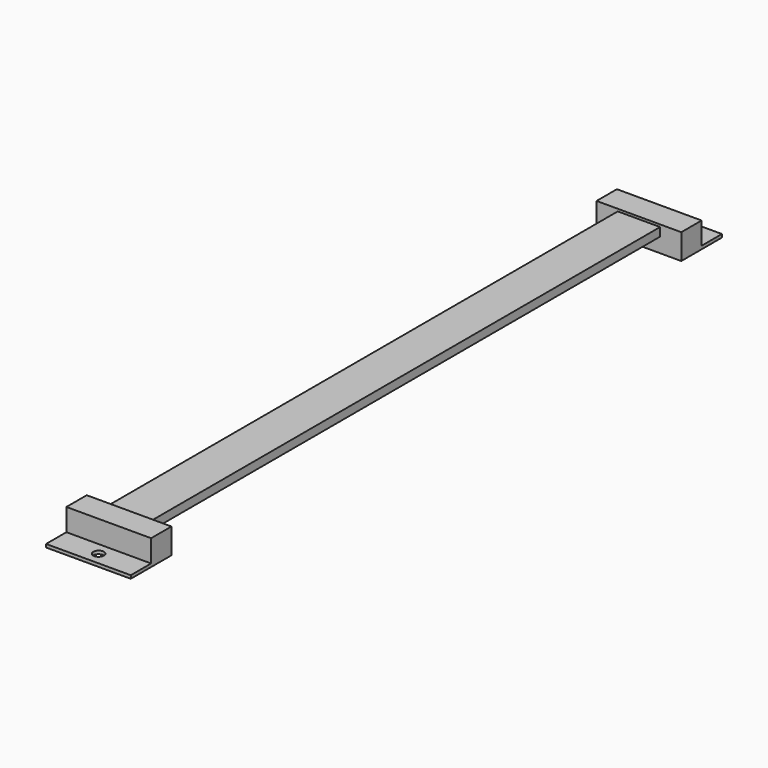
from build123d import *

# Parameters (mm, degrees)
SKETCH_W          = 20
SKETCH_H          = 4
PAD_DEPTH         = 162.5
PAD001_DEPTH      = 20
SKETCH002_R       = 2.5
POCKET_DEPTH      = 0.001
POCKET_DEPTH_BACK = -12.001


with BuildPart() as part:
    # Sketch → Pad (new body, symmetric)
    with BuildSketch(Plane.XZ):
        with Locations((0, 8.9)):
            Rectangle(SKETCH_W, SKETCH_H)
    extrude(amount=PAD_DEPTH, both=True)

    # Sketch001 → Pad001 (join, symmetric)
    with BuildSketch(Plane.YZ):
        Polygon((150.5, 12), (150.5, 0), (174.5, 0), (174.5, 1.5), (162.5, 1.5), (162.5, 12), align=None)
        Polygon((-162.5, 12), (-162.5, 1.5), (-174.5, 1.5), (-174.5, 0), (-150.5, 0), (-150.5, 12), align=None)
    extrude(amount=PAD001_DEPTH, both=True)

    # Sketch002 → Pocket (cut, two sides)
    with BuildSketch(Plane.XY) as pocket_sk:
        with Locations((0, -168.5)):
            Circle(SKETCH002_R)
        with Locations((0, 168.5)):
            Circle(SKETCH002_R)
    extrude(amount=-POCKET_DEPTH, mode=Mode.SUBTRACT)
    extrude(pocket_sk.sketch, amount=-POCKET_DEPTH_BACK, mode=Mode.SUBTRACT)


solid = part.part
